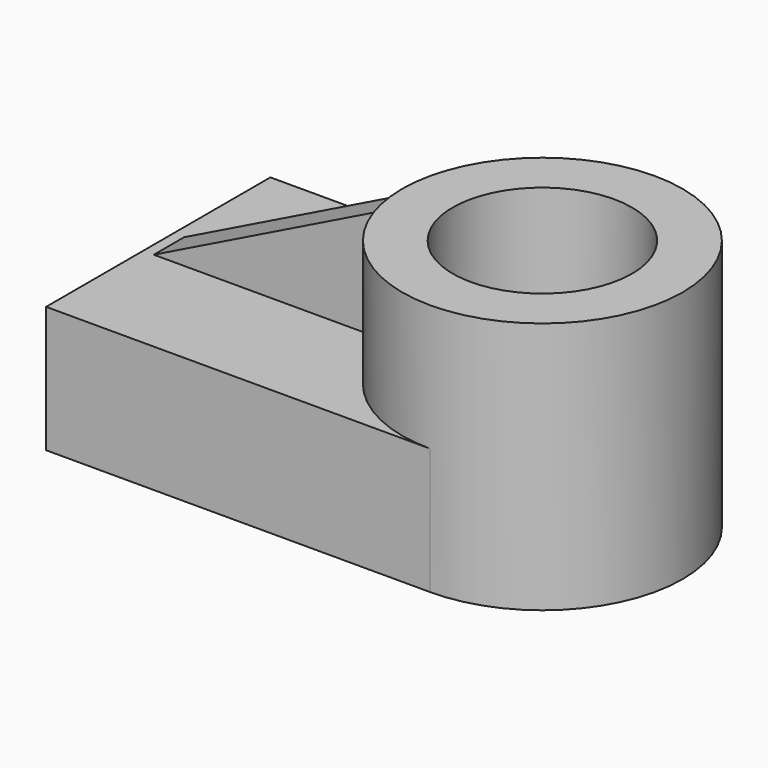
from build123d import *

# Parameters (mm, degrees)
F0_R     = 28.2006722859
F0_R_2   = 18.0375708909
F1_DEPTH = 50.8
F3_DEPTH = 25.4
F5_DEPTH = 3.81


with BuildPart() as f1:
    # F0 (on Top) → F1 (new body)
    with BuildSketch(Plane.XY):
        Circle(F0_R)
        Circle(F0_R_2, mode=Mode.SUBTRACT)
    extrude(amount=F1_DEPTH)

    # F2 (on face) → F3 (join)
    with BuildSketch(Plane(origin=(0, 0, 0), x_dir=(1, 0, 0), z_dir=(0, 0, -1))):
        with BuildLine():
            Line((-77.2829676373, -28.2006722859), (0, -28.2006722859))
            ThreePointArc((0, -28.2006722859), (-28.2006722859, 0), (0, 28.2006722859))
            Line((0, 28.2006722859), (-77.2829676373, 28.2006722859))
            Line((-77.2829676373, 28.2006722859), (-77.2829676373, -28.2006722859))
        make_face()
    extrude(amount=-F3_DEPTH)


with BuildPart() as f5:
    # F4 (on Front) → F5 (new body, symmetric)
    with BuildSketch(Plane.XZ):
        Polygon((-28.2520439008, 25.4135411233), (-28.3552613109, 48.512134701), (-75.1233696938, 25.4135411233), align=None)
    extrude(amount=F5_DEPTH, both=True)


solid = Compound([f1.part, f5.part])
